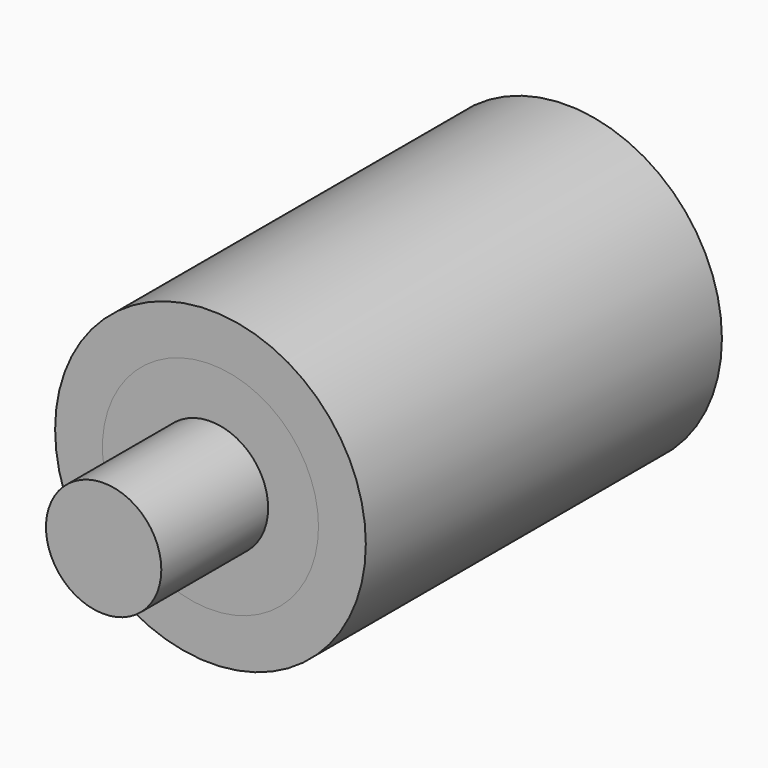
from build123d import *

# Parameters (mm, degrees)
F0_R          = 32.908074
F1_DEPTH      = 76.2
F1_DEPTH_BACK = 279.4
F0_R_2        = 61.644307
F2_DEPTH      = 279.4
F0_R_3        = 88.650797
F3_DEPTH      = 254


with BuildPart() as f1:
    # F0 (on Front) → F1 (new body, two sides)
    with BuildSketch(Plane.XZ) as f1_sk:
        with Locations((-21.851949, 0)):
            Circle(F0_R)
    extrude(amount=F1_DEPTH)
    extrude(f1_sk.sketch, amount=-F1_DEPTH_BACK)

    # F0 (on Front) → F2 (join)
    with BuildSketch(Plane.XZ):
        with Locations((-21.851949, 0)):
            Circle(F0_R_2)
        with Locations((-21.851949, 0)):
            Circle(F0_R, mode=Mode.SUBTRACT)
    extrude(amount=-F2_DEPTH)


with BuildPart() as f3:
    # F0 (on Front) → F3 (new body)
    with BuildSketch(Plane.XZ):
        with Locations((-21.851949, 0)):
            Circle(F0_R_3)
        with Locations((-21.851949, 0)):
            Circle(F0_R_2, mode=Mode.SUBTRACT)
    extrude(amount=-F3_DEPTH)


solid = Compound([f1.part, f3.part])
